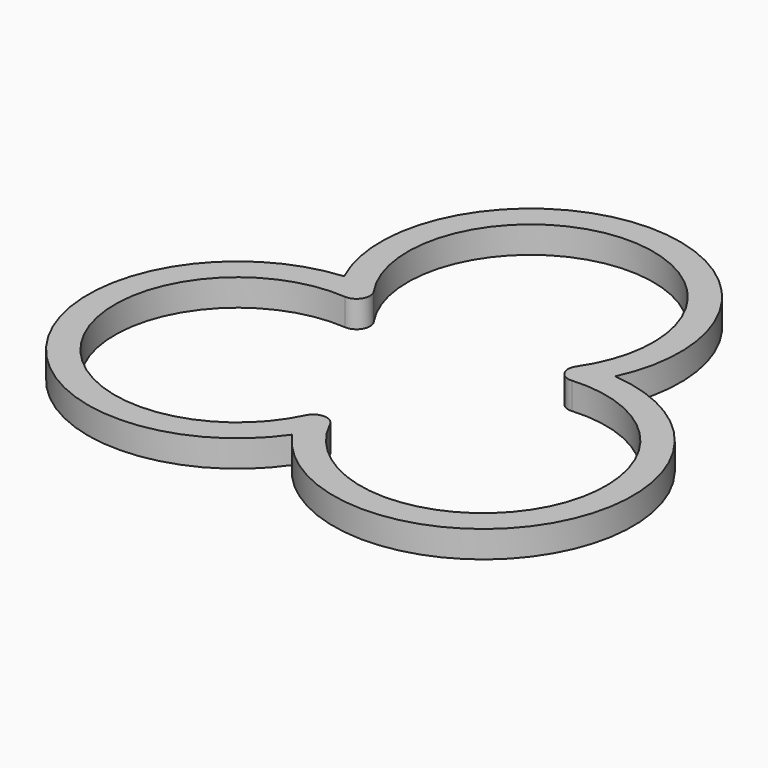
from build123d import *

# Parameters (mm, degrees)
F1_DEPTH = 2


with BuildPart() as f1:
    # F0 (on Top) → F1 (new body)
    with BuildSketch(Plane.XY):
        with BuildLine():
            ThreePointArc((-20.892715, -6.371813), (-2.086532, -5.575), (-10.799564, 11.110039))
            ThreePointArc((-10.799564, 11.110039), (-20.892715, 26.998265), (-30.985867, 11.110039))
            ThreePointArc((-30.985867, 11.110039), (-39.698899, -5.575), (-20.892715, -6.371813))
        make_face()
        with BuildLine():
            ThreePointArc((-21.794193, -3.960351), (-37.966848, -4.575), (-29.348219, 9.123605))
            ThreePointArc((-29.348219, 9.123605), (-28.406292, 9.620721), (-28.446741, 10.685011))
            ThreePointArc((-28.446741, 10.685011), (-20.892715, 24.998265), (-13.338689, 10.685011))
            ThreePointArc((-13.338689, 10.685011), (-13.379138, 9.620721), (-12.437212, 9.123605))
            ThreePointArc((-12.437212, 9.123605), (-3.818583, -4.575), (-19.991238, -3.960351))
            ThreePointArc((-19.991238, -3.960351), (-20.892715, -3.393177), (-21.794193, -3.960351))
        make_face(mode=Mode.SUBTRACT)
    extrude(amount=F1_DEPTH)


solid = f1.part
